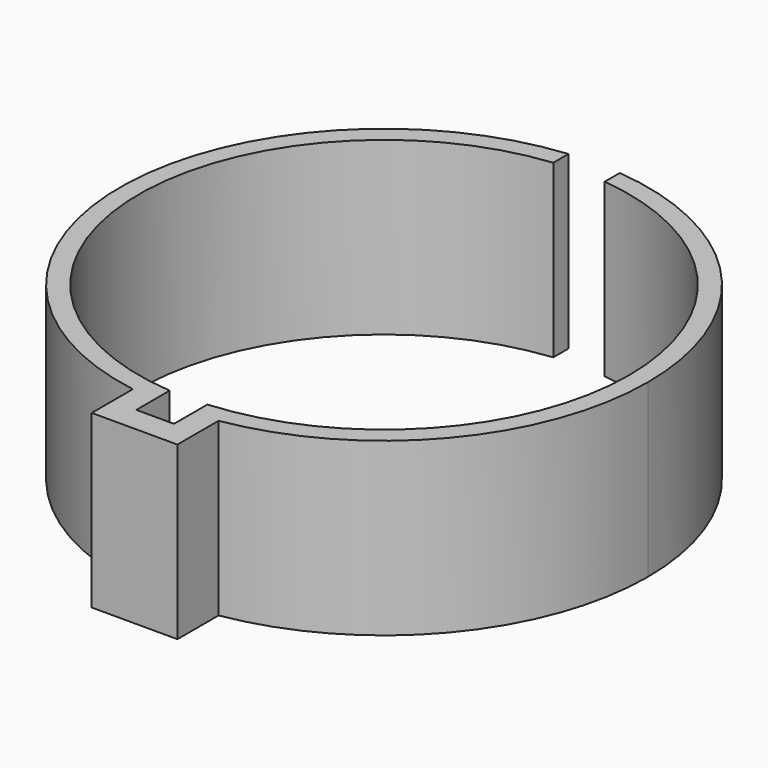
from build123d import *

# Parameters (mm, degrees)
F1_DEPTH = 5


with BuildPart() as f1:
    # F0 (on Top) → F1 (new body)
    with BuildSketch(Plane.XY):
        with BuildLine():
            ThreePointArc((-0.55, -7.128815), (-7.149295, -0.100416), (-0.75, 7.110556))
            Line((-0.75, 7.110556), (-0.75, 7.663387))
            ThreePointArc((-0.75, 7.663387), (-7.695871, 0.252138), (-1.25, -7.597862))
            ThreePointArc((-1.25, -7.597862), (-0.900944, -7.647111), (-0.55, -7.680332))
            Line((-0.55, -7.680332), (-0.55, -7.128815))
        make_face()
        with BuildLine():
            Line((-0.55, -8.347862), (-0.55, -7.680332))
            ThreePointArc((-0.55, -7.680332), (-0.900944, -7.647111), (-1.25, -7.597862))
            Line((-1.25, -7.597862), (-1.25, -9.097862))
            Line((-1.25, -9.097862), (1.25, -9.097862))
            Line((1.25, -9.097862), (1.25, -7.597862))
            ThreePointArc((1.25, -7.597862), (0.900944, -7.647111), (0.55, -7.680332))
            Line((0.55, -7.680332), (0.55, -8.347862))
            Line((0.55, -8.347862), (-0.55, -8.347862))
        make_face()
        with BuildLine():
            ThreePointArc((0.75, 7.110556), (5.314367, 4.783304), (7.15, 0))
            ThreePointArc((7.15, 0), (5.246666, -4.857468), (0.55, -7.128815))
            Line((0.55, -7.128815), (0.55, -7.597862))
            Line((0.55, -7.597862), (0.55, -7.680332))
            ThreePointArc((0.55, -7.680332), (0.900944, -7.647111), (1.25, -7.597862))
            ThreePointArc((1.25, -7.597862), (5.870051, -4.983222), (7.7, 0))
            ThreePointArc((7.7, 0), (5.703727, 5.172765), (0.75, 7.663387))
            Line((0.75, 7.663387), (0.75, 7.110556))
        make_face()
    extrude(amount=F1_DEPTH)


solid = f1.part
